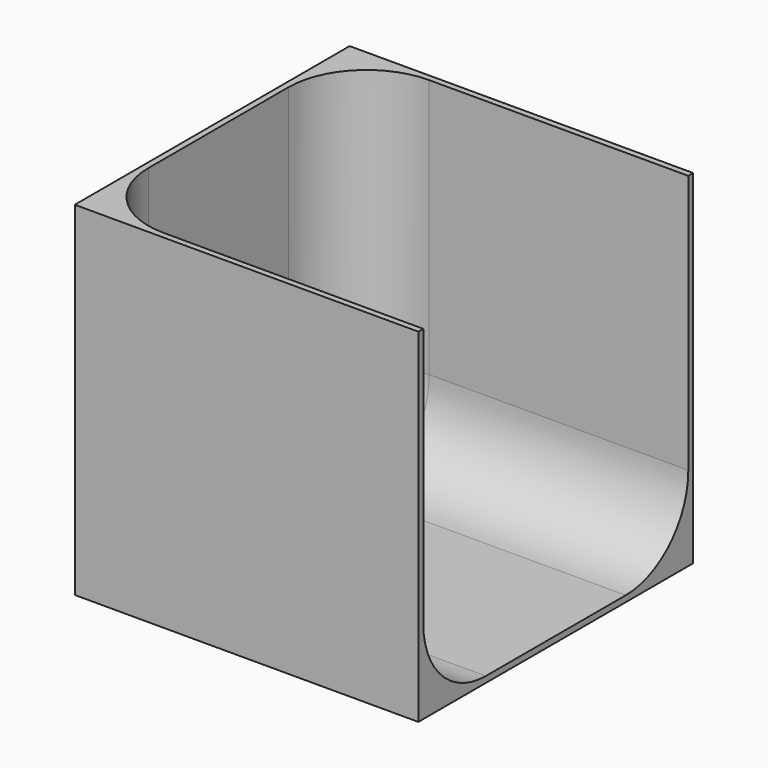
from build123d import *

# Parameters (mm, degrees)
F0_W     = 177.8
F0_H     = 177.8
F1_DEPTH = 177.8
F2_W     = 174.625
F2_H     = 171.45
F3_DEPTH = 174.625
F4_R     = 40.471876


with BuildPart() as f1:
    # F0 (on Top) → F1 (new body)
    with BuildSketch(Plane.XY):
        Rectangle(F0_W, F0_H)
    extrude(amount=F1_DEPTH)

    # F2 (on face) → F3 (cut)
    with BuildSketch(Plane.XY.offset(177.8)):
        with Locations((1.5875, 0)):
            Rectangle(F2_W, F2_H)
        with Locations((1.5875, 0)):
            Rectangle(F2_W, F2_H)
    extrude(amount=-F3_DEPTH, mode=Mode.SUBTRACT)

    # F4
    f4_edges = [f1.edges().sort_by_distance(p)[0] for p in [
        (1.5875, 85.725, 3.175),
        (-85.725, 85.725, 90.4875),
        (-85.725, 0, 3.175),
        (-85.725, -85.725, 90.4875),
        (1.5875, -85.725, 3.175),
    ]]
    fillet(f4_edges, radius=F4_R)


solid = f1.part
